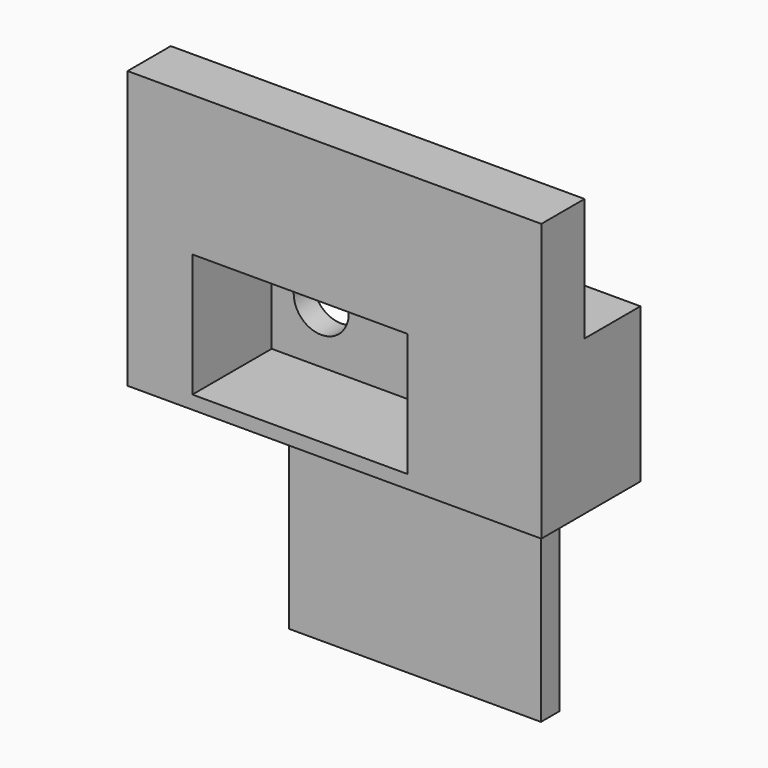
from build123d import *

# Parameters (mm, degrees)
F0_W     = 83.566
F0_H     = 55.9689
F1_DEPTH = 10.9093
F2_W     = 83.566
F2_H     = 31.1531
F3_DEPTH = 14.1097
F4_W     = 50.8889
F4_H     = 46.1518
F5_DEPTH = 4.699
F6_W     = 43.3959
F6_H     = 24.9174
F7_DEPTH = 20.0152
F8_R     = 5.55625
F9_DEPTH = 25.4


with BuildPart() as f1:
    # F0 (on Front) → F1 (new body)
    with BuildSketch(Plane.XZ):
        Rectangle(F0_W, F0_H)
    extrude(amount=F1_DEPTH)

    # F2 (on face) → F3 (join)
    with BuildSketch(Plane(origin=(0, 0, 0), x_dir=(-1, 0, 0), z_dir=(0, 1, 0))):
        with Locations((0, -12.4079)):
            Rectangle(F2_W, F2_H)
    extrude(amount=F3_DEPTH)

    # F4 (on face) → F5 (join)
    with BuildSketch(Plane(origin=(0, 14.1097, 0), x_dir=(-1, 0, 0), z_dir=(0, 1, 0))):
        with Locations((-0.00635, -51.06035)):
            Rectangle(F4_W, F4_H)
    extrude(amount=-F5_DEPTH)

    # F6 (on face) → F7 (cut)
    with BuildSketch(Plane.XZ.offset(10.9093)):
        with Locations((-6.99135, -12.82065)):
            Rectangle(F6_W, F6_H)
    extrude(amount=-F7_DEPTH, mode=Mode.SUBTRACT)

    # F8 (on face) → F9 (cut)
    with BuildSketch(Plane(origin=(0, 14.1097, 0), x_dir=(-1, 0, 0), z_dir=(0, 1, 0))):
        with Locations((18.68805, -13.991897)):
            Circle(F8_R)
    extrude(amount=-F9_DEPTH, mode=Mode.SUBTRACT)


solid = f1.part
